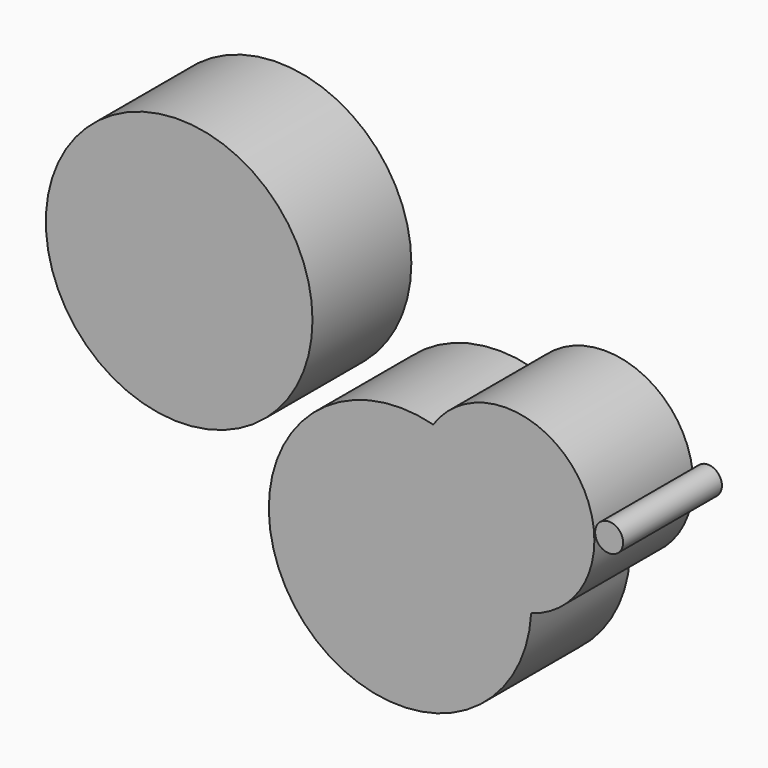
from build123d import *

# Parameters (mm, degrees)
F1_DEPTH = 50.8
F0_R     = 5.7455000811
F0_R_2   = 54.8223763287


with BuildPart() as f1:
    # F0 (on Front) → F1 (new body)
    with BuildSketch(Plane.XZ):
        with BuildLine():
            ThreePointArc((53.8941861361, -2.9741845183), (53.9556850414, -1.4876574002), (53.9761898694, 0))
            ThreePointArc((53.9761898694, 0), (42.710278811, 33.0039566826), (13.6153878439, 52.2307408207))
            ThreePointArc((13.6153878439, 52.2307408207), (14.2967467722, 10.4312391682), (53.8941861361, -2.9741845183))
        make_face()
        with BuildLine():
            ThreePointArc((13.6153878439, 52.2307408207), (42.710278811, 33.0039566826), (53.9761898694, 0))
            ThreePointArc((53.9761898694, 0), (53.9556850414, -1.4876574002), (53.8941861361, -2.9741845183))
            ThreePointArc((53.8941861361, -2.9741845183), (72.6678805053, 10.1024412904), (79.8822021529, 31.8142653956))
            ThreePointArc((79.8822021529, 31.8142653956), (54.2854393678, 66.4845810397), (13.6153878439, 52.2307408207))
        make_face()
        with BuildLine():
            ThreePointArc((53.8941861361, -2.9741845183), (14.2967467722, 10.4312391682), (13.6153878439, 52.2307408207))
            ThreePointArc((13.6153878439, 52.2307408207), (-43.6036878046, -31.8142653956), (53.8941861361, -2.9741845183))
        make_face()
    extrude(amount=F1_DEPTH)


with BuildPart() as f1b:
    # F0 (on Front) → F1, piece 2 (new body)
    with BuildSketch(Plane.XZ):
        with Locations((85.9373733401, 34.881208092)):
            Circle(F0_R)
    extrude(amount=F1_DEPTH)


with BuildPart() as f1c:
    # F0 (on Front) → F1, piece 3 (new body)
    with BuildSketch(Plane.XZ):
        with Locations((-90.8334851265, 73.9008635283)):
            Circle(F0_R_2)
    extrude(amount=F1_DEPTH)


solid = Compound([f1.part, f1b.part, f1c.part])
